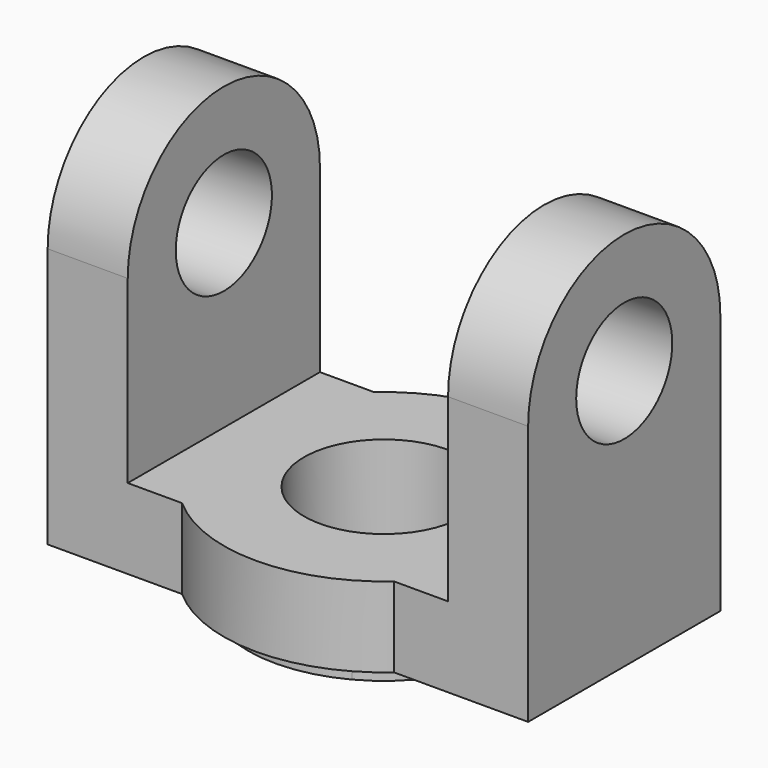
from build123d import *

# Parameters (mm, degrees)
F0_W      = 60
F0_H      = 30
F1_DEPTH  = 10
F2_W      = 10
F2_H      = 30
F3_DEPTH  = 37.5
F5_DEPTH  = 60.001
F6_R      = 7.5
F7_DEPTH  = 60.001
F9_DEPTH  = 2.5
F11_DEPTH = 10
F12_R     = 10
F13_DEPTH = 25


with BuildPart() as f1:
    # F0 (on Top) → F1 (new body)
    with BuildSketch(Plane.XY):
        Rectangle(F0_W, F0_H)
    extrude(amount=F1_DEPTH)

    # F2 (on face) → F3 (join)
    with BuildSketch(Plane.XY.offset(10)):
        with Locations((-25, 0)):
            Rectangle(F2_W, F2_H)
        with Locations((25, 0)):
            Rectangle(F2_W, F2_H)
    extrude(amount=F3_DEPTH)

    # F4 (on face) → F5 (cut, through all)
    with BuildSketch(Plane(origin=(-30, 0, 0), x_dir=(0, -1, 0), z_dir=(-1, 0, 0))):
        with BuildLine():
            ThreePointArc((-15, 32.5), (-10.6066017178, 43.1066017178), (0, 47.5))
            Line((0, 47.5), (-15, 47.5))
            Line((-15, 47.5), (-15, 32.5))
        make_face()
        with BuildLine():
            ThreePointArc((0, 47.5), (10.6066017178, 43.1066017178), (15, 32.5))
            Line((15, 32.5), (15, 47.5))
            Line((15, 47.5), (0, 47.5))
        make_face()
    extrude(amount=-F5_DEPTH, mode=Mode.SUBTRACT)

    # F6 (on face) → F7 (cut, through all)
    with BuildSketch(Plane(origin=(-30, 0, 0), x_dir=(0, -1, 0), z_dir=(-1, 0, 0))):
        with Locations((0, 32.5)):
            Circle(F6_R)
    extrude(amount=-F7_DEPTH, mode=Mode.SUBTRACT)

    # F8 (on face) → F9 (join)
    with BuildSketch(Plane(origin=(0, 0, 0), x_dir=(1, 0, 0), z_dir=(0, 0, -1))):
        with BuildLine():
            Line((-8, 15), (8, 15))
            ThreePointArc((8, 15), (0, 17), (-8, 15))
        make_face()
        with BuildLine():
            ThreePointArc((8, -15), (14.5773797371, -8.7464278423), (17, 0))
            ThreePointArc((17, 0), (14.5773797371, 8.7464278423), (8, 15))
            Line((8, 15), (-8, 15))
            ThreePointArc((-8, 15), (-17, 0), (-8, -15))
            Line((-8, -15), (8, -15))
        make_face()
        with BuildLine():
            ThreePointArc((-8, -15), (0, -17), (8, -15))
            Line((8, -15), (-8, -15))
        make_face()
    extrude(amount=F9_DEPTH)

    # F10 (on face) → F11 (join)
    with BuildSketch(Plane.XY.offset(10)):
        with BuildLine():
            Line((-13.2287565553, 15), (13.2287565553, 15))
            ThreePointArc((13.2287565553, 15), (0, 20), (-13.2287565553, 15))
        make_face()
        with BuildLine():
            Line((13.2287565553, -15), (-13.2287565553, -15))
            ThreePointArc((-13.2287565553, -15), (0, -20), (13.2287565553, -15))
        make_face()
    extrude(amount=-F11_DEPTH)

    # F12 (on face) → F13 (cut)
    with BuildSketch(Plane.XY.offset(10)):
        Circle(F12_R)
    extrude(amount=-F13_DEPTH, mode=Mode.SUBTRACT)


solid = f1.part
